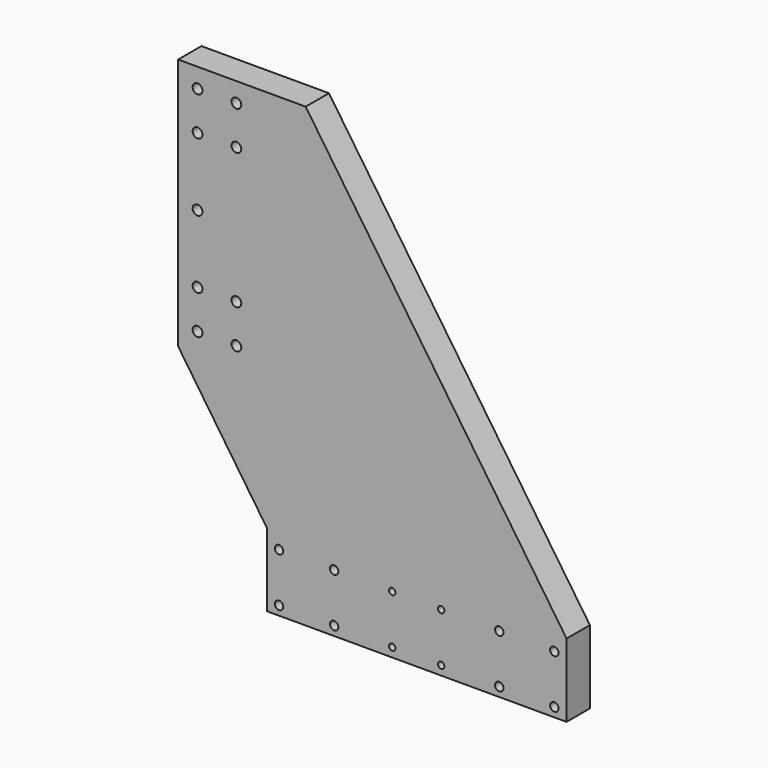
from build123d import *

# Parameters (mm, degrees)
SHAPEBINDER_R       = 3.2
SHAPEBINDER_R_2     = 2.75
PAD001_DEPTH        = 19.05
HOLE002_D           = 6.4
HOLE002_CBORE_D     = 10.5
HOLE002_CBORE_DEPTH = 8
HOLE003_D           = 5.5
HOLE003_CBORE_D     = 9.5
HOLE003_CBORE_DEPTH = 6
HOLE004_D           = 6.4
HOLE004_CBORE_D     = 10.5
HOLE004_CBORE_DEPTH = 8
SKETCH021_R         = 2.1
POCKET011_DEPTH     = 19.051
SKETCH026_R         = 2.5
POCKET012_DEPTH     = 20


with BuildPart() as part:
    # ShapeBinder → Pad001 (new body)
    with BuildSketch(Plane(origin=(23.746009, 0, 109.511429), x_dir=(-1, 0, 0), z_dir=(0, -1, 0))):
        Polygon((107.746009, -167.188571), (107.746009, -2.088571), (49.746009, 83.511429), (49.746009, 131.511429), (-146.253991, 131.511429), (-146.253991, 83.511429), (24.346009, -167.188571), align=None)
        with Locations((69.646009, -129.088571)):
            Circle(SHAPEBINDER_R, mode=Mode.SUBTRACT)
        with Locations((95.046009, -129.088571)):
            Circle(SHAPEBINDER_R, mode=Mode.SUBTRACT)
        with Locations((69.646009, -40.188571)):
            Circle(SHAPEBINDER_R, mode=Mode.SUBTRACT)
        with Locations((95.046009, -40.188571)):
            Circle(SHAPEBINDER_R, mode=Mode.SUBTRACT)
        with Locations((69.646009, -14.788571)):
            Circle(SHAPEBINDER_R, mode=Mode.SUBTRACT)
        with Locations((95.046009, -14.788571)):
            Circle(SHAPEBINDER_R, mode=Mode.SUBTRACT)
        with Locations((69.646009, -154.488571)):
            Circle(SHAPEBINDER_R, mode=Mode.SUBTRACT)
        with Locations((95.046009, -154.488571)):
            Circle(SHAPEBINDER_R, mode=Mode.SUBTRACT)
        with Locations((-138.253991, 125.511429)):
            Circle(SHAPEBINDER_R_2, mode=Mode.SUBTRACT)
        with Locations((-138.253991, 93.511429)):
            Circle(SHAPEBINDER_R_2, mode=Mode.SUBTRACT)
        with Locations((5.746009, 125.511429)):
            Circle(SHAPEBINDER_R_2, mode=Mode.SUBTRACT)
        with Locations((41.746009, 125.511429)):
            Circle(SHAPEBINDER_R_2, mode=Mode.SUBTRACT)
        with Locations((5.746009, 93.511429)):
            Circle(SHAPEBINDER_R_2, mode=Mode.SUBTRACT)
        with Locations((41.746009, 93.511429)):
            Circle(SHAPEBINDER_R_2, mode=Mode.SUBTRACT)
        with Locations((-102.253991, 125.511429)):
            Circle(SHAPEBINDER_R_2, mode=Mode.SUBTRACT)
        with Locations((-102.253991, 93.511429)):
            Circle(SHAPEBINDER_R_2, mode=Mode.SUBTRACT)
    extrude(amount=PAD001_DEPTH)

    # Hole002 (through all)
    with Locations(Plane(origin=(0, 0, 0), x_dir=(-1, 0, 0), z_dir=(0, 1, 0))):
        with Locations((45.9, 238.6), (71.3, 238.6), (71.3, 149.7), (45.9, 149.7), (45.9, 124.3), (71.3, 124.3), (71.3, 264), (45.9, 264)):
            CounterBoreHole(HOLE002_D / 2, HOLE002_CBORE_D / 2, HOLE002_CBORE_DEPTH)

    # Hole003 (through all)
    with Locations(Plane(origin=(0, 0, 0), x_dir=(-1, 0, 0), z_dir=(0, 1, 0))):
        with Locations((18, -16), (-162, 16), (-162, -16), (-18, -16), (-126, -16), (-18, 16), (18, 16), (18, 16), (-126, 16)):
            CounterBoreHole(HOLE003_D / 2, HOLE003_CBORE_D / 2, HOLE003_CBORE_DEPTH)

    # Hole004 (through all)
    with Locations(Plane(origin=(0, 0, 0), x_dir=(-1, 0, 0), z_dir=(0, 1, 0))):
        with Locations((71.3, 194.15)):
            CounterBoreHole(HOLE004_D / 2, HOLE004_CBORE_D / 2, HOLE004_CBORE_DEPTH)

    # Sketch021 → Pocket011 (cut, through all)
    with BuildSketch(Plane(origin=(0, 0, 0), x_dir=(-1, 0, 0), z_dir=(0, 1, 0))):
        with Locations((-88, 16)):
            Circle(SKETCH021_R)
        with Locations((-88, -16)):
            Circle(SKETCH021_R)
        with Locations((-56, 16)):
            Circle(SKETCH021_R)
        with Locations((-56, -16)):
            Circle(SKETCH021_R)
    extrude(amount=-POCKET011_DEPTH, mode=Mode.SUBTRACT)

    # Sketch026 (on Face7 of Pocket011) → Pocket012 (cut)
    with BuildSketch(Plane(origin=(-26, 0, 0), x_dir=(0, -1, 0), z_dir=(-1, 0, 0))):
        with Locations((9.525, 0)):
            Circle(SKETCH026_R)
    extrude(amount=-POCKET012_DEPTH, mode=Mode.SUBTRACT)


with BuildPart() as part_1:
    # Body001 placement: moved
    add(part.part.moved(Location((0, 407, 0))))


solid = part_1.part
